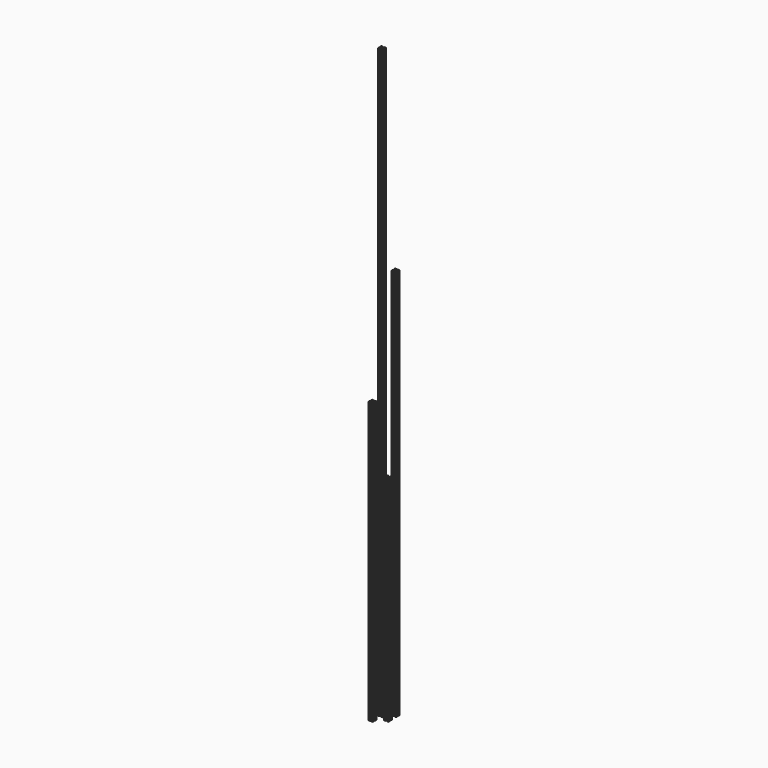
from build123d import *

# Parameters (mm, degrees)
F0_W      = 25.4
F0_H      = 2235.2
F1_DEPTH  = 25.4
F2_W      = 25.4
F2_H      = 25.4
F4_DEPTH  = 2235.2
F3_R      = 2.6035
F5_DEPTH  = 2235.2
F11_R     = 2.6035
F12_DEPTH = 1219.2
F13_R     = 2.6035
F14_DEPTH = 3352.8
F15_R     = 2.6035
F16_DEPTH = 1600.2


with BuildPart() as f1:
    # F0 (on Front) → F1 (new body)
    with BuildSketch(Plane.XZ):
        with Locations((-101.660393, 949.00357)):
            Rectangle(F0_W, F0_H)
    extrude(amount=F1_DEPTH)


with BuildPart() as f4:
    # F2 (on Top) → F4 (new body)
    with BuildSketch(Plane.XY):
        with Locations((-1.767366, 6.47699)):
            Rectangle(F2_W, F2_H)
    extrude(amount=F4_DEPTH)

    # F3 (on Top) → F5 (cut)
    with BuildSketch(Plane.XY):
        with BuildLine():
            Line((1.483834, 19.17699), (-5.018566, 19.17699))
            Line((-5.018566, 19.17699), (-5.018566, 13.51279))
            ThreePointArc((-5.018566, 13.51279), (-4.274617, 11.716738), (-2.478566, 10.97279))
            Line((-2.478566, 10.97279), (-1.056166, 10.97279))
            ThreePointArc((-1.056166, 10.97279), (0.739885, 11.716738), (1.483834, 13.51279))
            Line((1.483834, 13.51279), (1.483834, 19.17699))
        make_face()
        with BuildLine():
            Line((-5.018566, -0.55881), (-5.018566, -6.22301))
            Line((-5.018566, -6.22301), (1.483834, -6.22301))
            Line((1.483834, -6.22301), (1.483834, -0.55881))
            ThreePointArc((1.483834, -0.55881), (0.739885, 1.237241), (-1.056166, 1.98119))
            Line((-1.056166, 1.98119), (-2.478566, 1.98119))
            ThreePointArc((-2.478566, 1.98119), (-4.274617, 1.237241), (-5.018566, -0.55881))
        make_face()
        with BuildLine():
            Line((-8.803166, 9.72819), (-14.467366, 9.72819))
            Line((-14.467366, 9.72819), (-14.467366, 3.22579))
            Line((-14.467366, 3.22579), (-8.803166, 3.22579))
            ThreePointArc((-8.803166, 3.22579), (-7.007115, 3.969738), (-6.263166, 5.76579))
            Line((-6.263166, 5.76579), (-6.263166, 7.18819))
            ThreePointArc((-6.263166, 7.18819), (-7.007115, 8.984241), (-8.803166, 9.72819))
        make_face()
        with BuildLine():
            Line((10.932634, 3.22579), (10.932634, 9.72819))
            Line((10.932634, 9.72819), (5.268434, 9.72819))
            ThreePointArc((5.268434, 9.72819), (3.472383, 8.984241), (2.728434, 7.18819))
            Line((2.728434, 7.18819), (2.728434, 5.76579))
            ThreePointArc((2.728434, 5.76579), (3.472383, 3.969738), (5.268434, 3.22579))
            Line((5.268434, 3.22579), (10.932634, 3.22579))
        make_face()
        with Locations((-1.767366, 6.47699)):
            Circle(F3_R)
    extrude(amount=F5_DEPTH, mode=Mode.SUBTRACT)


with BuildPart() as f7_1:
    # F7: instance of F4
    add(f4.part.mirror(Plane.XZ))


with BuildPart() as f4_1:
    # F8: moved
    add(f4.part.moved(Location((0, 17.78, 0))))


with BuildPart() as f4_2:
    # F9: moved
    add(f4_1.part.moved(Location((0, 31.75, 0))))


with BuildPart() as f12:
    # F11 (on Top) → F12 (new body)
    with BuildSketch(Plane.XY):
        with BuildLine():
            Line((-3.122749, 12.571549), (-12.571549, 12.571549))
            Line((-12.571549, 12.571549), (-12.571549, 3.122749))
            Line((-12.571549, 3.122749), (-6.907349, 3.122749))
            ThreePointArc((-6.907349, 3.122749), (-5.111297, 2.3788), (-4.367349, 0.582749))
            Line((-4.367349, 0.582749), (-4.367349, -0.839651))
            ThreePointArc((-4.367349, -0.839651), (-5.111297, -2.635703), (-6.907349, -3.379651))
            Line((-6.907349, -3.379651), (-12.571549, -3.379651))
            Line((-12.571549, -3.379651), (-12.571549, -12.828451))
            Line((-12.571549, -12.828451), (-3.122749, -12.828451))
            Line((-3.122749, -12.828451), (-3.122749, -7.164251))
            ThreePointArc((-3.122749, -7.164251), (-2.3788, -5.3682), (-0.582749, -4.624251))
            Line((-0.582749, -4.624251), (0.839651, -4.624251))
            ThreePointArc((0.839651, -4.624251), (2.635703, -5.3682), (3.379651, -7.164251))
            Line((3.379651, -7.164251), (3.379651, -12.828451))
            Line((3.379651, -12.828451), (12.828451, -12.828451))
            Line((12.828451, -12.828451), (12.828451, -3.379651))
            Line((12.828451, -3.379651), (7.164251, -3.379651))
            ThreePointArc((7.164251, -3.379651), (5.3682, -2.635703), (4.624251, -0.839651))
            Line((4.624251, -0.839651), (4.624251, 0.582749))
            ThreePointArc((4.624251, 0.582749), (5.3682, 2.3788), (7.164251, 3.122749))
            Line((7.164251, 3.122749), (12.828451, 3.122749))
            Line((12.828451, 3.122749), (12.828451, 12.571549))
            Line((12.828451, 12.571549), (3.379651, 12.571549))
            Line((3.379651, 12.571549), (3.379651, 6.907349))
            ThreePointArc((3.379651, 6.907349), (2.635703, 5.111297), (0.839651, 4.367349))
            Line((0.839651, 4.367349), (-0.582749, 4.367349))
            ThreePointArc((-0.582749, 4.367349), (-2.3788, 5.111297), (-3.122749, 6.907349))
            Line((-3.122749, 6.907349), (-3.122749, 12.571549))
        make_face()
        with Locations((0.128451, -0.128451)):
            Circle(F11_R, mode=Mode.SUBTRACT)
    extrude(amount=F12_DEPTH)


with BuildPart() as f14:
    # F13 (on Top) → F14 (new body)
    with BuildSketch(Plane.XY):
        with BuildLine():
            Line((-52.420679, 29.840744), (-61.869479, 29.840744))
            Line((-61.869479, 29.840744), (-61.869479, 20.391944))
            Line((-61.869479, 20.391944), (-56.205279, 20.391944))
            ThreePointArc((-56.205279, 20.391944), (-54.409228, 19.647996), (-53.665279, 17.851944))
            Line((-53.665279, 17.851944), (-53.665279, 16.429544))
            ThreePointArc((-53.665279, 16.429544), (-54.409228, 14.633493), (-56.205279, 13.889544))
            Line((-56.205279, 13.889544), (-61.869479, 13.889544))
            Line((-61.869479, 13.889544), (-61.869479, 4.440744))
            Line((-61.869479, 4.440744), (-52.420679, 4.440744))
            Line((-52.420679, 4.440744), (-52.420679, 10.104944))
            ThreePointArc((-52.420679, 10.104944), (-51.67673, 11.900996), (-49.880679, 12.644944))
            Line((-49.880679, 12.644944), (-48.458279, 12.644944))
            ThreePointArc((-48.458279, 12.644944), (-46.662228, 11.900996), (-45.918279, 10.104944))
            Line((-45.918279, 10.104944), (-45.918279, 4.440744))
            Line((-45.918279, 4.440744), (-36.469479, 4.440744))
            Line((-36.469479, 4.440744), (-36.469479, 13.889544))
            Line((-36.469479, 13.889544), (-42.133679, 13.889544))
            ThreePointArc((-42.133679, 13.889544), (-43.92973, 14.633493), (-44.673679, 16.429544))
            Line((-44.673679, 16.429544), (-44.673679, 17.851944))
            ThreePointArc((-44.673679, 17.851944), (-43.92973, 19.647996), (-42.133679, 20.391944))
            Line((-42.133679, 20.391944), (-36.469479, 20.391944))
            Line((-36.469479, 20.391944), (-36.469479, 29.840744))
            Line((-36.469479, 29.840744), (-45.918279, 29.840744))
            Line((-45.918279, 29.840744), (-45.918279, 24.176544))
            ThreePointArc((-45.918279, 24.176544), (-46.662228, 22.380493), (-48.458279, 21.636544))
            Line((-48.458279, 21.636544), (-49.880679, 21.636544))
            ThreePointArc((-49.880679, 21.636544), (-51.67673, 22.380493), (-52.420679, 24.176544))
            Line((-52.420679, 24.176544), (-52.420679, 29.840744))
        make_face()
        with Locations((-49.169479, 17.140744)):
            Circle(F13_R, mode=Mode.SUBTRACT)
    extrude(amount=F14_DEPTH)


with BuildPart() as f16:
    # F15 (on Top) → F16 (new body)
    with BuildSketch(Plane.XY):
        with BuildLine():
            Line((-56.87255, -31.248805), (-66.32135, -31.248805))
            Line((-66.32135, -31.248805), (-66.32135, -40.697605))
            Line((-66.32135, -40.697605), (-60.65715, -40.697605))
            ThreePointArc((-60.65715, -40.697605), (-58.861099, -41.441554), (-58.11715, -43.237605))
            Line((-58.11715, -43.237605), (-58.11715, -44.660005))
            ThreePointArc((-58.11715, -44.660005), (-58.861099, -46.456056), (-60.65715, -47.200005))
            Line((-60.65715, -47.200005), (-66.32135, -47.200005))
            Line((-66.32135, -47.200005), (-66.32135, -56.648805))
            Line((-66.32135, -56.648805), (-56.87255, -56.648805))
            Line((-56.87255, -56.648805), (-56.87255, -50.984605))
            ThreePointArc((-56.87255, -50.984605), (-56.128601, -49.188554), (-54.33255, -48.444605))
            Line((-54.33255, -48.444605), (-52.91015, -48.444605))
            ThreePointArc((-52.91015, -48.444605), (-51.114099, -49.188554), (-50.37015, -50.984605))
            Line((-50.37015, -50.984605), (-50.37015, -56.648805))
            Line((-50.37015, -56.648805), (-40.92135, -56.648805))
            Line((-40.92135, -56.648805), (-40.92135, -47.200005))
            Line((-40.92135, -47.200005), (-46.58555, -47.200005))
            ThreePointArc((-46.58555, -47.200005), (-48.381601, -46.456056), (-49.12555, -44.660005))
            Line((-49.12555, -44.660005), (-49.12555, -43.237605))
            ThreePointArc((-49.12555, -43.237605), (-48.381601, -41.441554), (-46.58555, -40.697605))
            Line((-46.58555, -40.697605), (-40.92135, -40.697605))
            Line((-40.92135, -40.697605), (-40.92135, -31.248805))
            Line((-40.92135, -31.248805), (-50.37015, -31.248805))
            Line((-50.37015, -31.248805), (-50.37015, -36.913005))
            ThreePointArc((-50.37015, -36.913005), (-51.114099, -38.709056), (-52.91015, -39.453005))
            Line((-52.91015, -39.453005), (-54.33255, -39.453005))
            ThreePointArc((-54.33255, -39.453005), (-56.128601, -38.709056), (-56.87255, -36.913005))
            Line((-56.87255, -36.913005), (-56.87255, -31.248805))
        make_face()
        with Locations((-53.62135, -43.948805)):
            Circle(F15_R, mode=Mode.SUBTRACT)
    extrude(amount=F16_DEPTH)


solid = Compound([f4_2.part, f12.part, f14.part, f16.part])
